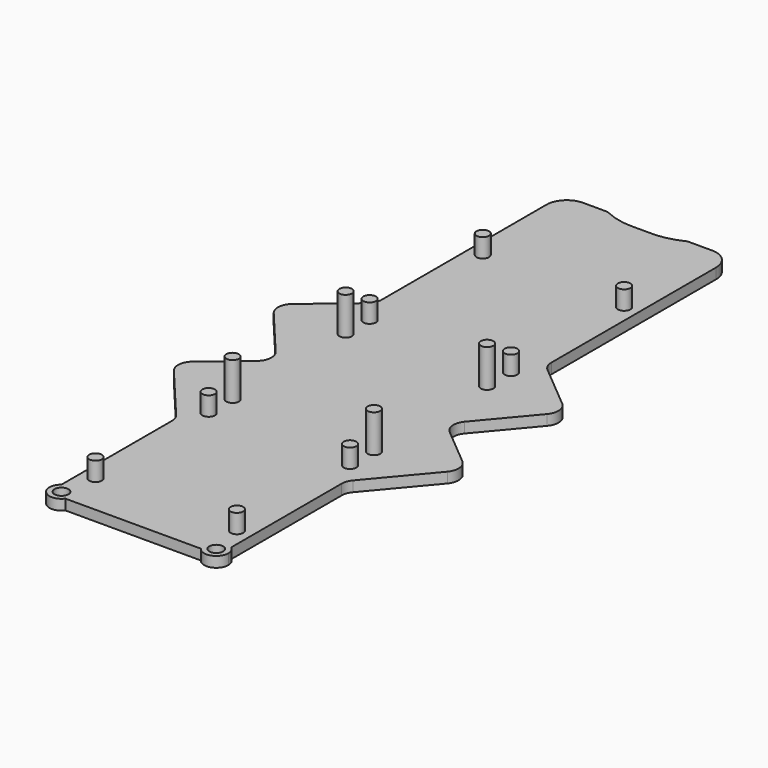
from build123d import *

# Parameters (mm, degrees)
F0_R     = 1.4859
F1_DEPTH = 2.2098
F2_R     = 1.33
F3_DEPTH = 4
F4_DEPTH = 8


with BuildPart() as f1:
    # F0 (on Top) → F1 (new body)
    with BuildSketch(Plane.XY):
        with BuildLine():
            Line((2.114807, 67.46875), (-2.114807, 67.46875))
            ThreePointArc((-2.114807, 67.46875), (-5.0139, 67.776541), (-7.783739, 68.686193))
            Line((-7.783739, 68.686193), (-8.215857, 68.880768))
            ThreePointArc((-8.215857, 68.880768), (-8.47063, 68.964439), (-8.737292, 68.99275))
            Line((-8.737292, 68.99275), (-13.69695, 68.99275))
            ThreePointArc((-13.69695, 68.99275), (-16.750237, 67.728037), (-18.01495, 64.67475))
            Line((-18.01495, 64.67475), (-18.01495, 20.943534))
            ThreePointArc((-18.01495, 20.943534), (-18.312512, 19.601529), (-19.149422, 18.511071))
            Line((-19.149422, 18.511071), (-28.620485, 10.56605))
            ThreePointArc((-28.620485, 10.56605), (-29.742839, 8.410727), (-29.01242, 6.09306))
            Line((-29.01242, 6.09306), (-20.055478, -4.584288))
            ThreePointArc((-20.055478, -4.584288), (-19.325058, -6.901955), (-20.447412, -9.057278))
            Line((-20.447412, -9.057278), (-28.620485, -15.91345))
            ThreePointArc((-28.620485, -15.91345), (-29.742839, -18.068773), (-29.01242, -20.38644))
            Line((-29.01242, -20.38644), (-18.757488, -32.611089))
            ThreePointArc((-18.757488, -32.611089), (-18.206354, -33.565901), (-18.01495, -34.651617))
            Line((-18.01495, -34.651617), (-18.01495, -63.949145))
            ThreePointArc((-18.01495, -63.949145), (-15.313338, -63.63877), (-13.864863, -65.940283))
            ThreePointArc((-13.864863, -65.940283), (-13.995237, -66.745649), (-14.373042, -67.46875))
            Line((-14.373042, -67.46875), (14.373042, -67.46875))
            ThreePointArc((14.373042, -67.46875), (14.643616, -64.104693), (18.01495, -63.949145))
            Line((18.01495, -63.949145), (18.01495, -34.651617))
            ThreePointArc((18.01495, -34.651617), (18.206354, -33.565901), (18.757488, -32.611089))
            Line((18.757488, -32.611089), (29.01242, -20.38644))
            ThreePointArc((29.01242, -20.38644), (29.742839, -18.068773), (28.620485, -15.91345))
            Line((28.620485, -15.91345), (20.447412, -9.057278))
            ThreePointArc((20.447412, -9.057278), (19.325058, -6.901955), (20.055478, -4.584288))
            Line((20.055478, -4.584288), (29.01242, 6.09306))
            ThreePointArc((29.01242, 6.09306), (29.742839, 8.410727), (28.620485, 10.56605))
            Line((28.620485, 10.56605), (19.149422, 18.511071))
            ThreePointArc((19.149422, 18.511071), (18.312512, 19.601529), (18.01495, 20.943534))
            Line((18.01495, 20.943534), (18.01495, 64.67475))
            ThreePointArc((18.01495, 64.67475), (16.750237, 67.728037), (13.69695, 68.99275))
            Line((13.69695, 68.99275), (8.737292, 68.99275))
            ThreePointArc((8.737292, 68.99275), (8.47063, 68.964439), (8.215857, 68.880768))
            Line((8.215857, 68.880768), (7.783739, 68.686193))
            ThreePointArc((7.783739, 68.686193), (5.0139, 67.776541), (2.114807, 67.46875))
        make_face()
        with BuildLine():
            ThreePointArc((-13.864863, -65.940283), (-15.313338, -63.63877), (-18.01495, -63.949145))
            ThreePointArc((-18.01495, -63.949145), (-18.19151, -67.775873), (-14.373042, -67.46875))
            ThreePointArc((-14.373042, -67.46875), (-13.995237, -66.745649), (-13.864863, -65.940283))
        make_face()
        with Locations((-16.417563, -65.940283)):
            Circle(F0_R, mode=Mode.SUBTRACT)
        with BuildLine():
            ThreePointArc((18.970263, -65.940283), (18.719076, -64.836058), (18.01495, -63.949145))
            ThreePointArc((18.01495, -63.949145), (14.643616, -64.104693), (14.373042, -67.46875))
            ThreePointArc((14.373042, -67.46875), (17.222929, -68.362609), (18.970263, -65.940283))
        make_face()
        with Locations((16.417563, -65.940283)):
            Circle(F0_R, mode=Mode.SUBTRACT)
    extrude(amount=F1_DEPTH)

    # F2 (on face) → F3 (join)
    with BuildSketch(Plane.XY.offset(2.2098)):
        with Locations((-15, 44.01575)):
            Circle(F2_R)
        with Locations((15, 44.01575)):
            Circle(F2_R)
        with Locations((15, 14.01575)):
            Circle(F2_R)
        with Locations((-15, 14.01575)):
            Circle(F2_R)
        with Locations((15, -28.68425)):
            Circle(F2_R)
        with Locations((-15, -28.68425)):
            Circle(F2_R)
        with Locations((-15, -58.68425)):
            Circle(F2_R)
        with Locations((15, -58.68425)):
            Circle(F2_R)
    extrude(amount=F3_DEPTH)

    # F2 (on face) → F4 (join)
    with BuildSketch(Plane.XY.offset(2.2098)):
        with Locations((15, 7.66575)):
            Circle(F2_R)
        with Locations((15, -22.33425)):
            Circle(F2_R)
        with Locations((-15, -22.33425)):
            Circle(F2_R)
        with Locations((-15, 7.66575)):
            Circle(F2_R)
    extrude(amount=F4_DEPTH)


solid = f1.part
